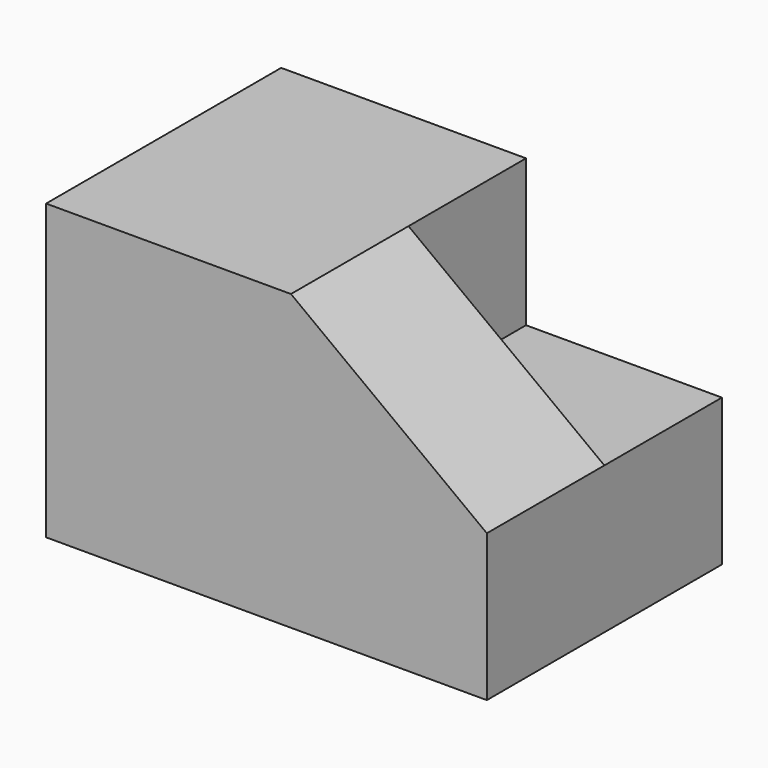
from build123d import *

# Parameters (mm, degrees)
F1_DEPTH = 152.4
F3_DEPTH = 76.2


with BuildPart() as f1:
    # F0 (on Front) → F1 (new body)
    with BuildSketch(Plane.XZ):
        Polygon((-228.6, 0), (0, 0), (0, 76.2), (-100.878969, 76.2), (-101.6, 152.4), (-228.6, 152.4), align=None)
        Polygon((-100.878969, 76.2), (0, 76.2), (-101.6, 152.4), align=None)
    extrude(amount=F1_DEPTH)

    # F2 (on face) → F3 (cut)
    with BuildSketch(Plane(origin=(0, 0, 0), x_dir=(-1, 0, 0), z_dir=(0, 1, 0))):
        Polygon((101.6, 152.4), (0, 76.2), (101.6, 76.2), align=None)
    extrude(amount=-F3_DEPTH, mode=Mode.SUBTRACT)


solid = f1.part
